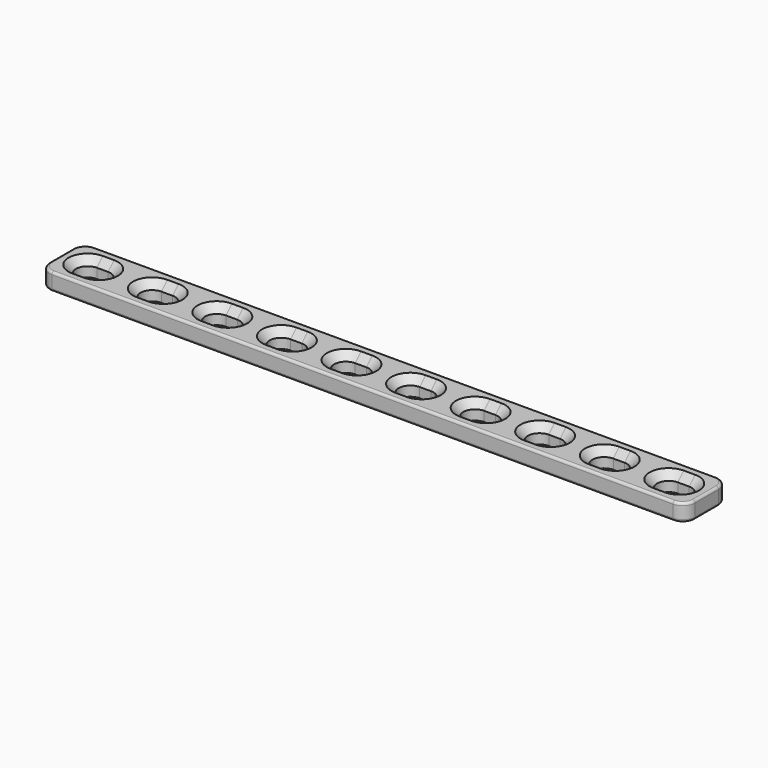
from build123d import *

# Parameters (mm, degrees)
F1_DEPTH = 3.5
F2_SIZE  = 1.5
F3_R     = 0.5


with BuildPart() as f1:
    # F0 (on Top) → F1 (new body)
    with BuildSketch(Plane.XY):
        with BuildLine():
            ThreePointArc((-70.053309, -25.1151), (-69.321076, -26.882867), (-67.553309, -27.6151))
            Line((-67.553309, -27.6151), (58.446691, -27.6151))
            ThreePointArc((58.446691, -27.6151), (60.214458, -26.882867), (60.946691, -25.1151))
            Line((60.946691, -25.1151), (60.946691, -19.194903))
            ThreePointArc((60.946691, -19.194903), (60.214458, -17.427136), (58.446691, -16.694903))
            Line((58.446691, -16.694903), (-67.553309, -16.694903))
            ThreePointArc((-67.553309, -16.694903), (-69.321076, -17.427136), (-70.053309, -19.194903))
            Line((-70.053309, -19.194903), (-70.053309, -25.1151))
        make_face()
        with BuildLine():
            ThreePointArc((-64.703309, -24.505002), (-67.053309, -22.155002), (-64.703309, -19.805002))
            Line((-64.703309, -19.805002), (-62.403309, -19.805002))
            ThreePointArc((-62.403309, -19.805002), (-60.053309, -22.155002), (-62.403309, -24.505002))
            Line((-62.403309, -24.505002), (-64.703309, -24.505002))
        make_face(mode=Mode.SUBTRACT)
        with BuildLine():
            ThreePointArc((-51.603309, -24.505002), (-53.953309, -22.155002), (-51.603309, -19.805002))
            Line((-51.603309, -19.805002), (-49.303309, -19.805002))
            ThreePointArc((-49.303309, -19.805002), (-46.953309, -22.155002), (-49.303309, -24.505002))
            Line((-49.303309, -24.505002), (-51.603309, -24.505002))
        make_face(mode=Mode.SUBTRACT)
        with BuildLine():
            ThreePointArc((-38.503309, -24.505002), (-40.853309, -22.155002), (-38.503309, -19.805002))
            Line((-38.503309, -19.805002), (-36.203309, -19.805002))
            ThreePointArc((-36.203309, -19.805002), (-33.853309, -22.155002), (-36.203309, -24.505002))
            Line((-36.203309, -24.505002), (-38.503309, -24.505002))
        make_face(mode=Mode.SUBTRACT)
        with BuildLine():
            ThreePointArc((-25.403309, -24.505002), (-27.753309, -22.155002), (-25.403309, -19.805002))
            Line((-25.403309, -19.805002), (-23.103309, -19.805002))
            ThreePointArc((-23.103309, -19.805002), (-20.753309, -22.155002), (-23.103309, -24.505002))
            Line((-23.103309, -24.505002), (-25.403309, -24.505002))
        make_face(mode=Mode.SUBTRACT)
        with BuildLine():
            ThreePointArc((-12.303309, -24.505002), (-14.653309, -22.155002), (-12.303309, -19.805002))
            Line((-12.303309, -19.805002), (-10.003309, -19.805002))
            ThreePointArc((-10.003309, -19.805002), (-7.653309, -22.155002), (-10.003309, -24.505002))
            Line((-10.003309, -24.505002), (-12.303309, -24.505002))
        make_face(mode=Mode.SUBTRACT)
        with BuildLine():
            ThreePointArc((0.796691, -24.505002), (-1.553309, -22.155002), (0.796691, -19.805002))
            Line((0.796691, -19.805002), (3.096691, -19.805002))
            ThreePointArc((3.096691, -19.805002), (5.446691, -22.155002), (3.096691, -24.505002))
            Line((3.096691, -24.505002), (0.796691, -24.505002))
        make_face(mode=Mode.SUBTRACT)
        with BuildLine():
            ThreePointArc((13.896691, -24.505002), (11.546691, -22.155002), (13.896691, -19.805002))
            Line((13.896691, -19.805002), (16.196691, -19.805002))
            ThreePointArc((16.196691, -19.805002), (18.546691, -22.155002), (16.196691, -24.505002))
            Line((16.196691, -24.505002), (13.896691, -24.505002))
        make_face(mode=Mode.SUBTRACT)
        with BuildLine():
            ThreePointArc((26.996691, -24.505002), (24.646691, -22.155002), (26.996691, -19.805002))
            Line((26.996691, -19.805002), (29.296691, -19.805002))
            ThreePointArc((29.296691, -19.805002), (31.646691, -22.155002), (29.296691, -24.505002))
            Line((29.296691, -24.505002), (26.996691, -24.505002))
        make_face(mode=Mode.SUBTRACT)
        with BuildLine():
            ThreePointArc((40.096691, -24.505002), (37.746691, -22.155002), (40.096691, -19.805002))
            Line((40.096691, -19.805002), (42.396691, -19.805002))
            ThreePointArc((42.396691, -19.805002), (44.746691, -22.155002), (42.396691, -24.505002))
            Line((42.396691, -24.505002), (40.096691, -24.505002))
        make_face(mode=Mode.SUBTRACT)
        with BuildLine():
            ThreePointArc((53.196691, -24.505002), (50.846691, -22.155002), (53.196691, -19.805002))
            Line((53.196691, -19.805002), (55.496691, -19.805002))
            ThreePointArc((55.496691, -19.805002), (57.846691, -22.155002), (55.496691, -24.505002))
            Line((55.496691, -24.505002), (53.196691, -24.505002))
        make_face(mode=Mode.SUBTRACT)
    extrude(amount=F1_DEPTH)

    # F2
    f2_edges = [f1.edges().sort_by_distance(p)[0] for p in [
        (-60.053309, -22.155002, 3.5),
        (-46.953309, -22.155002, 3.5),
        (-33.853309, -22.155002, 3.5),
        (-20.753309, -22.155002, 3.5),
        (-7.653309, -22.155002, 3.5),
        (5.446691, -22.155002, 3.5),
        (18.546691, -22.155002, 3.5),
        (31.646691, -22.155002, 3.5),
        (44.746691, -22.155002, 3.5),
        (57.846691, -22.155002, 3.5),
    ]]
    chamfer(f2_edges, length=F2_SIZE)

    # F3
    f3_edges = [f1.edges().sort_by_distance(p)[0] for p in [
        (-4.553309, -27.6151, 3.5),
        (-4.553309, -27.6151, 0),
    ]]
    fillet(f3_edges, radius=F3_R)


solid = f1.part
